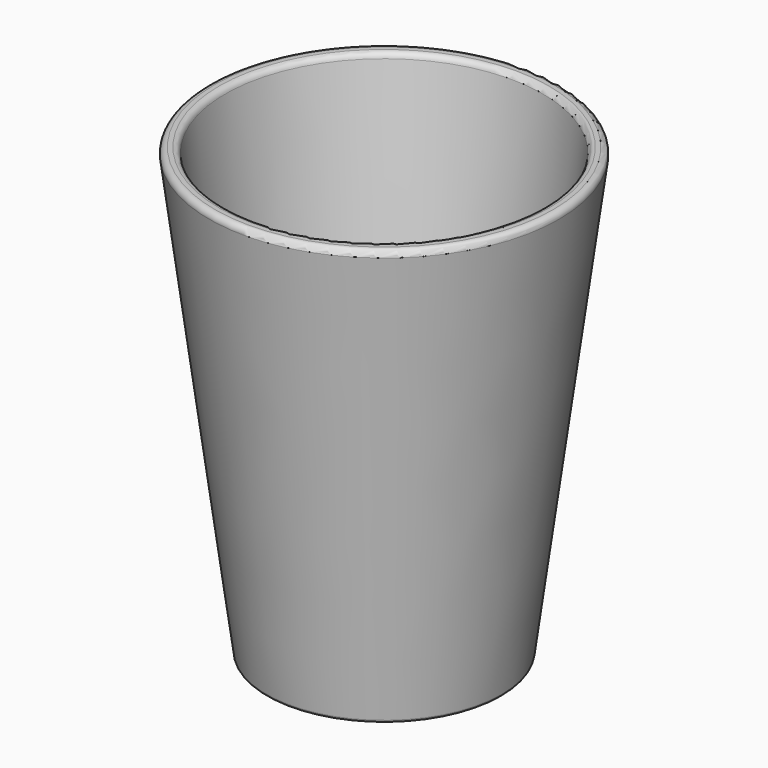
from build123d import *

# Parameters (mm, degrees)
F2_R = 0.5
F3_R = 0.25


with BuildPart() as f1:
    # F0 (on Front) → F1 (revolve)
    with BuildSketch(Plane.XZ):
        with BuildLine():
            Line((9, 0), (10, 0))
            Line((10, 0), (15, 38.022425))
            Line((15, 38.022425), (13.625722, 38.022425))
            Line((13.625722, 38.022425), (8.958023, 2.5))
            Line((8.958023, 2.5), (0, 2.5))
            Line((0, 2.5), (0, 1))
            add(Edge.make_bspline(
                [(9, 0), (6.263342, 1.193833), (1.370298, 1.058621), (0, 1)],
                knots=[0, 0, 0, 0, 9.055385, 9.055385, 9.055385, 9.055385], degree=3))
        make_face()
    revolve(axis=Axis((0, 0, 1.75), (0, 0, 1)))

    # F2
    f2_edges = [f1.edges().sort_by_distance(p)[0] for p in [
        (-13.625722, 0, 38.022425),
        (-15, 0, 38.022425),
    ]]
    fillet(f2_edges, radius=F2_R)

    # F3
    f3_edges = [f1.edges().sort_by_distance(p)[0] for p in [
        (-8.958023, 0, 2.5),
        (-9, 0, 0),
        (-10, 0, 0),
    ]]
    fillet(f3_edges, radius=F3_R)


solid = f1.part
